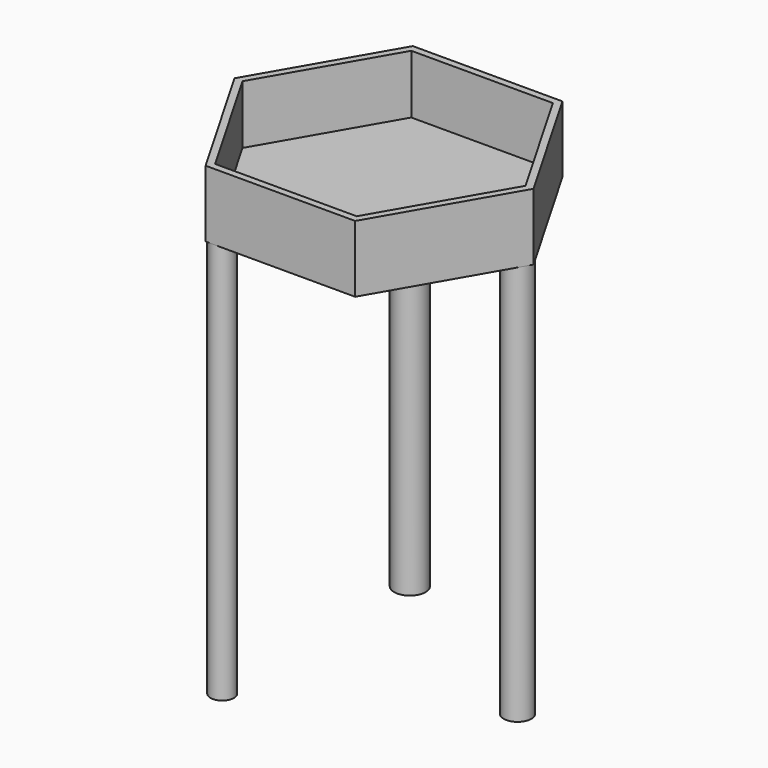
from build123d import *

# Parameters (mm, degrees)
F1_DEPTH = 25
F2_DEPTH = 3
F3_R     = 4.38636
F4_DEPTH = 150
F3_R_2   = 5.18705
F5_DEPTH = 150
F3_R_3   = 5.885261
F6_DEPTH = 150


with BuildPart() as f1:
    # F0 (on Top) → F1 (new body)
    with BuildSketch(Plane.XY):
        Polygon((28, -48.497423), (56, 0), (28, 48.497423), (-28, 48.497423), (-56, 0), (-28, -48.497423), align=None)
        Polygon((26.5, 45.899346), (53, 0), (26.5, -45.899346), (-26.5, -45.899346), (-53, 0), (-26.5, 45.899346), align=None, mode=Mode.SUBTRACT)
    extrude(amount=F1_DEPTH)

    # F0 (on Top) → F2 (join)
    with BuildSketch(Plane.XY):
        Polygon((26.5, -45.899346), (53, 0), (26.5, 45.899346), (-26.5, 45.899346), (-53, 0), (-26.5, -45.899346), align=None)
    extrude(amount=F2_DEPTH)

    # F3 (on Top) → F4 (join)
    with BuildSketch(Plane.XY):
        with Locations((-25.37145, -44.025768)):
            Circle(F3_R)
    extrude(amount=-F4_DEPTH)

    # F3 (on Top) → F5 (join)
    with BuildSketch(Plane.XY):
        with Locations((50, 0)):
            Circle(F3_R_2)
    extrude(amount=-F5_DEPTH)

    # F3 (on Top) → F6 (join)
    with BuildSketch(Plane.XY):
        with Locations((-25.37145, -44.025768)):
            Circle(F3_R)
        with Locations((50, 0)):
            Circle(F3_R_2)
        with Locations((-24.971633, 43.317751)):
            Circle(F3_R_3)
    extrude(amount=-F6_DEPTH)


solid = f1.part
